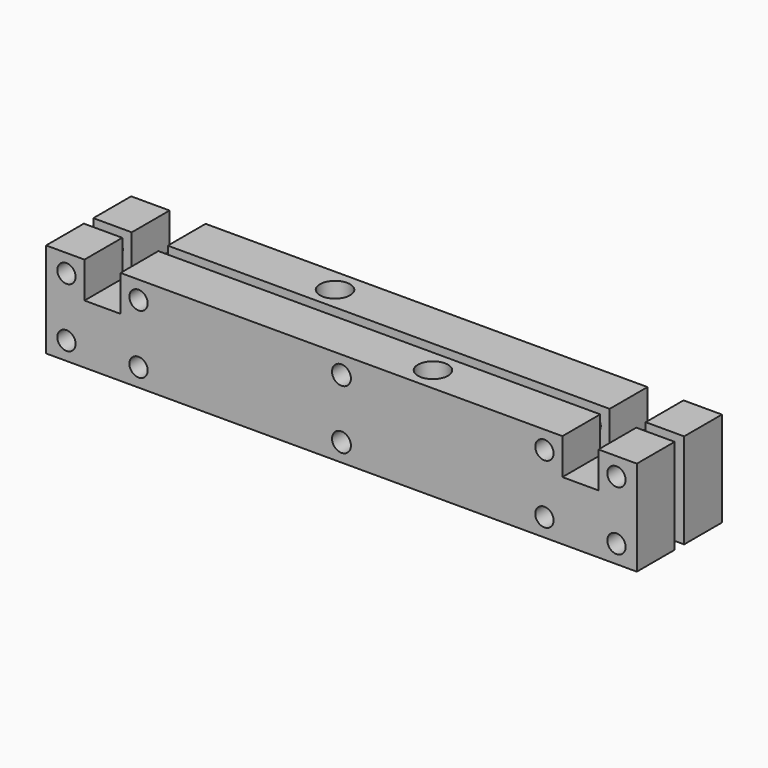
from build123d import *

# Parameters (mm, degrees)
SKETCH002_W           = 100
SKETCH002_H           = 2
EXTRUDE002_DEPTH      = 10
EXTRUDE002_DEPTH_BACK = 50
SKETCH001_R           = 2.55
EXTRUDE001_DEPTH      = 0.01
EXTRUDE001_DEPTH_BACK = 50.01
SKETCH_R              = 1.55
SKETCH_R_2            = 1.6
EXTRUDE_DEPTH         = 9


with BuildPart() as extrude002:
    # Sketch002 (on Face3 of Cut) → Extrude002 (new body, two sides)
    with BuildSketch(Plane.XY.offset(8.05)) as extrude002_sk:
        Rectangle(SKETCH002_W, SKETCH002_H)
    extrude(amount=EXTRUDE002_DEPTH)
    extrude(extrude002_sk.sketch, amount=-EXTRUDE002_DEPTH_BACK)


with BuildPart() as extrude001:
    # Sketch001 (on Face2 of Extrude) → Extrude001 (new body, two sides)
    with BuildSketch(Plane.XY.offset(8.05)) as extrude001_sk:
        with Locations((-12.25, 4.95)):
            Circle(SKETCH001_R)
        with Locations((12.25, -4.95)):
            Circle(SKETCH001_R)
    extrude(amount=EXTRUDE001_DEPTH)
    extrude(extrude001_sk.sketch, amount=-EXTRUDE001_DEPTH_BACK)


with BuildPart() as cut001:
    # Sketch → Extrude (new body, symmetric)
    with BuildSketch(Plane.XZ):
        Polygon((-37.4, 8.05), (37.4, 8.05), (37.4, 1.95), (43.5, 1.95), (43.5, 8.05), (50, 8.05), (50, -8.05), (-50, -8.05), (-50, 8.05), (-43.5, 8.05), (-43.5, 1.95), (-37.4, 1.95), align=None)
        with Locations((-46.55, 5)):
            Circle(SKETCH_R, mode=Mode.SUBTRACT)
        with Locations((-46.55, -5)):
            Circle(SKETCH_R, mode=Mode.SUBTRACT)
        with Locations((46.55, 5)):
            Circle(SKETCH_R, mode=Mode.SUBTRACT)
        with Locations((46.55, -5)):
            Circle(SKETCH_R, mode=Mode.SUBTRACT)
        with Locations((0, 5)):
            Circle(SKETCH_R_2, mode=Mode.SUBTRACT)
        with Locations((0, -5)):
            Circle(SKETCH_R_2, mode=Mode.SUBTRACT)
        with Locations((-34.35, 5)):
            Circle(SKETCH_R, mode=Mode.SUBTRACT)
        with Locations((-34.35, -5)):
            Circle(SKETCH_R, mode=Mode.SUBTRACT)
        with Locations((34.35, 5)):
            Circle(SKETCH_R, mode=Mode.SUBTRACT)
        with Locations((34.35, -5)):
            Circle(SKETCH_R, mode=Mode.SUBTRACT)
    extrude(amount=EXTRUDE_DEPTH, both=True)

    # Cut: cut Extrude001
    add(extrude001.part, mode=Mode.SUBTRACT)

    # Cut001: cut Extrude002
    add(extrude002.part, mode=Mode.SUBTRACT)


solid = cut001.part
